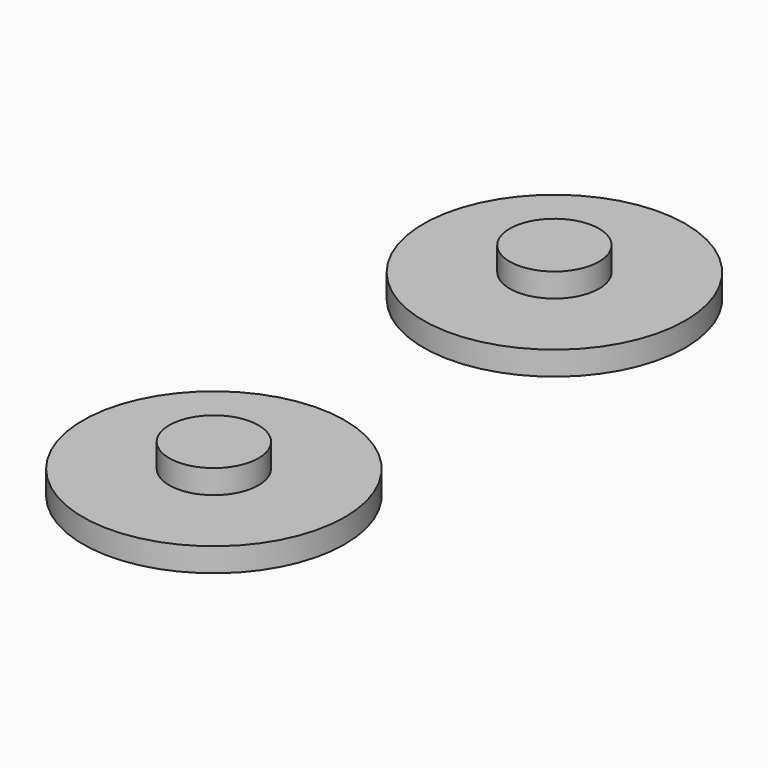
from build123d import *

# Parameters (mm, degrees)
F0_R     = 11
F1_DEPTH = 2
F2_R     = 3.75
F3_DEPTH = 2


with BuildPart() as f1:
    # F0 (on Top) → F1 (new body)
    with BuildSketch(Plane.XY):
        Circle(F0_R)
        with Locations((0, 35.735294)):
            Circle(F0_R)
    extrude(amount=F1_DEPTH)

    # F2 (on face) → F3 (join)
    with BuildSketch(Plane.XY.offset(2)):
        Circle(F2_R)
        with Locations((0, 35.735294)):
            Circle(F2_R)
    extrude(amount=F3_DEPTH)


solid = f1.part
